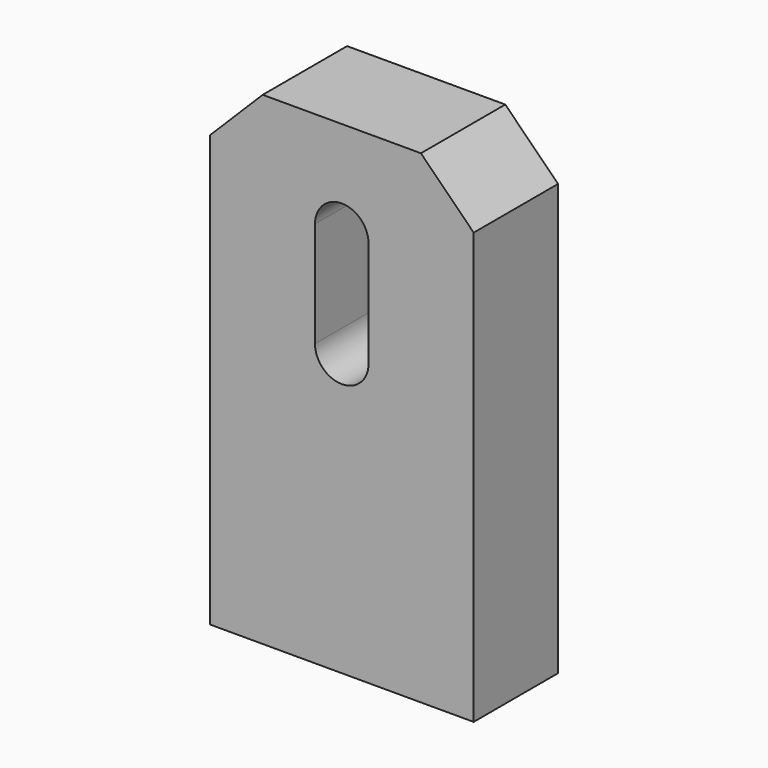
from build123d import *

# Parameters (mm, degrees)
F0_W     = 30
F0_H     = 55
F1_DEPTH = 12
F2_SIZE  = 6
F4_D     = 4.2
F4_DEPTH = 14
F4_TIP   = 1.2618073


with BuildPart() as f1:
    # F0 (on Front) → F1 (new body)
    with BuildSketch(Plane.XZ):
        Rectangle(F0_W, F0_H)
        with BuildLine():
            ThreePointArc((-3.05, 16.5), (0, 19.55), (3.05, 16.5))
            Line((3.05, 16.5), (3.05, 4.5))
            ThreePointArc((3.05, 4.5), (0, 1.45), (-3.05, 4.5))
            Line((-3.05, 4.5), (-3.05, 16.5))
        make_face(mode=Mode.SUBTRACT)
    extrude(amount=F1_DEPTH)

    # F2
    f2_edges = [f1.edges().sort_by_distance(p)[0] for p in [
        (-15, -6, 27.5),
        (15, -6, 27.5),
    ]]
    chamfer(f2_edges, length=F2_SIZE)

    # F4
    with Locations(Plane(origin=(0, 0, -27.5), x_dir=(1, 0, 0), z_dir=(0, 0, -1))):
        with Locations((-10, 6), (10, 6)):
            Hole(F4_D / 2, depth=F4_DEPTH)
            with Locations((0, 0, -(F4_DEPTH + F4_TIP / 2))):  # 118° drill point
                Cone(0, F4_D / 2, F4_TIP, mode=Mode.SUBTRACT)


solid = f1.part
